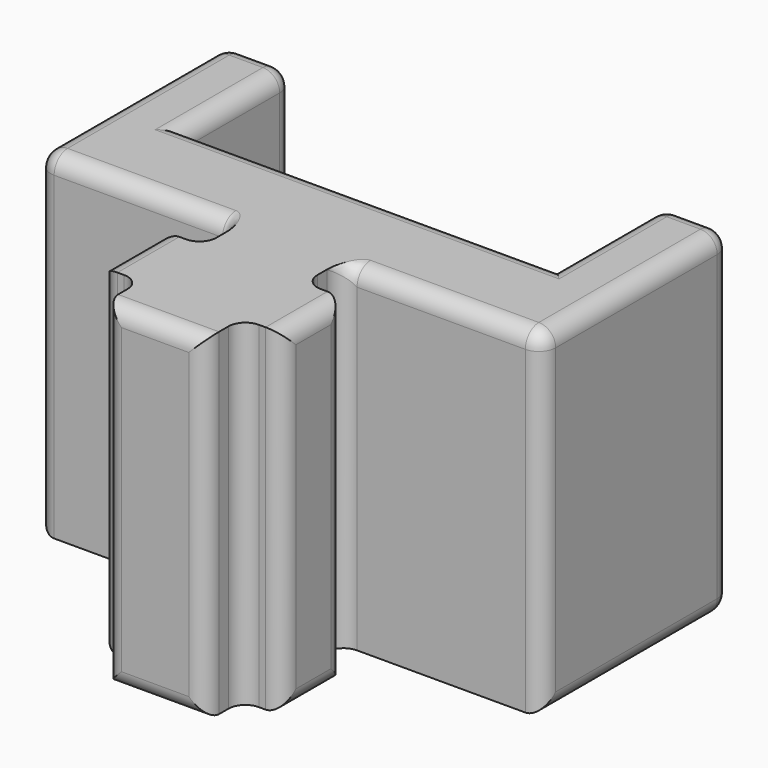
from build123d import *

# Parameters (mm, degrees)
PAD_DEPTH = 10
FILLET_R  = 0.5


with BuildPart() as part:
    # Sketch → Pad (new body)
    with BuildSketch(Plane.XY):
        Polygon((-7.5, 23.28312), (-7.5, 16.28312), (-1.5, 16.28312), (-1.5, 14.93312), (-2.7, 14.93312), (-2.7, 12.63312), (-1.5, 12.63312), (-1.5, 11.28312), (1.5, 11.28312), (1.5, 12.63312), (2.7, 12.63312), (2.7, 14.93312), (1.5, 14.93312), (1.5, 16.28312), (7.5, 16.28312), (7.5, 23.28312), (5.5, 23.28312), (5.5, 19.28312), (-5.5, 19.28312), (-5.5, 23.28312), align=None)
    extrude(amount=PAD_DEPTH)

    # Fillet
    fillet_edges = [part.edges().sort_by_distance(p)[0] for p in [
        (2.7, 12.63312, 5),
        (2.7, 14.93312, 5),
        (2.7, 13.78312, 0),
        (2.7, 13.78312, 10),
        (1.5, 11.28312, 5),
        (-1.5, 11.28312, 5),
        (0, 11.28312, 0),
        (0, 11.28312, 10),
        (-2.7, 13.78312, 0),
        (1.5, 12.63312, 5),
        (1.5, 14.93312, 5),
        (-1.5, 12.63312, 5),
        (-1.5, 14.93312, 5),
        (-2.7, 14.93312, 5),
        (-2.7, 12.63312, 5),
        (1.5, 16.28312, 5),
        (7.5, 16.28312, 5),
        (-1.5, 16.28312, 5),
        (-7.5, 16.28312, 5),
        (-7.5, 23.28312, 5),
        (7.5, 23.28312, 5),
        (5.5, 23.28312, 5),
        (-5.5, 23.28312, 5),
        (6.5, 23.28312, 0),
        (7.5, 19.78312, 0),
        (-6.5, 23.28312, 0),
        (-7.5, 19.78312, 0),
        (-7.5, 19.78312, 10),
        (-6.5, 23.28312, 10),
        (6.5, 23.28312, 10),
        (7.5, 19.78312, 10),
        (-4.5, 16.28312, 10),
        (4.5, 16.28312, 10),
        (-2.7, 13.78312, 10),
        (0, 19.28312, 10),
        (0, 19.28312, 0),
        (-5.5, 21.28312, 0),
        (5.5, 21.28312, 0),
        (5.5, 21.28312, 10),
        (-5.5, 21.28312, 10),
    ]]
    fillet(fillet_edges, radius=FILLET_R)


solid = part.part
